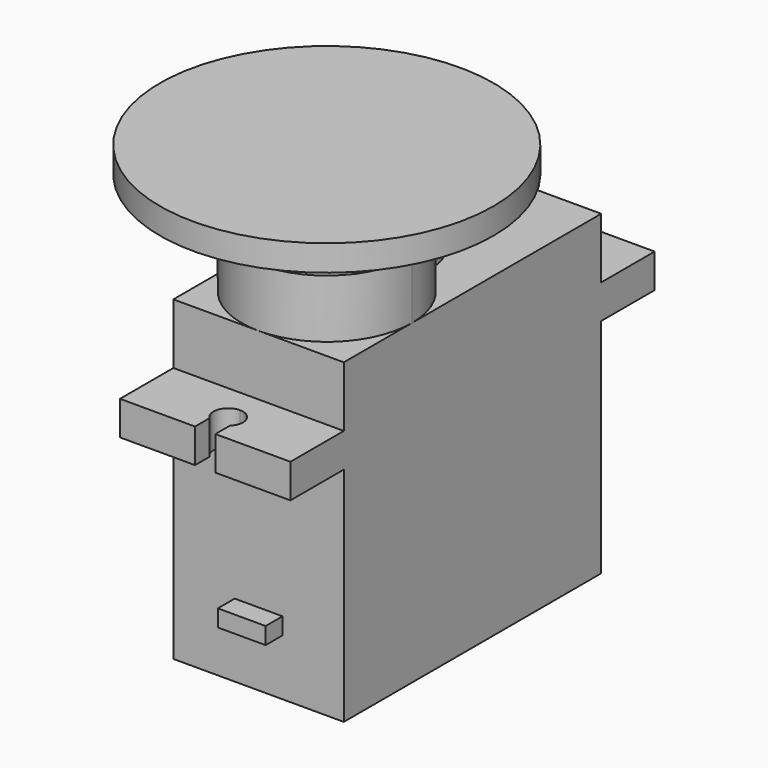
from build123d import *

# Parameters (mm, degrees)
F0_W          = 12.13
F0_H          = 22.9
F1_DEPTH      = 22.53
F2_W          = 12.13
F2_H          = 2.42
F3_DEPTH      = 4.75
F3_DEPTH_BACK = 27.65
F4_W          = 0.725
F4_H          = 1
F5_DEPTH      = 25
F6_DEPTH      = 25
F8_DEPTH      = 4.15
F9_R          = 2.45
F10_DEPTH     = 3.2
F11_R         = 11.87
F11_R_2       = 3.425
F11_R_3       = 2.45
F12_DEPTH     = 1.85
F13_DEPTH     = 2.67
F14_W         = 1.7
F14_H         = 1.2
F15_DEPTH     = 1.5


with BuildPart() as f1:
    # F0 (on Top) → F1 (new body)
    with BuildSketch(Plane.XY):
        Rectangle(F0_W, F0_H)
    extrude(amount=F1_DEPTH)

    # F2 (on face) → F3 (join, two sides)
    with BuildSketch(Plane(origin=(0, 11.45, 0), x_dir=(-1, 0, 0), z_dir=(0, 1, 0))) as f3_sk:
        with Locations((0, 17.02)):
            Rectangle(F2_W, F2_H)
    extrude(amount=F3_DEPTH)
    extrude(f3_sk.sketch, amount=-F3_DEPTH_BACK)

    # F4 (on face) → F5 (cut)
    with BuildSketch(Plane.XY.offset(18.23)):
        with BuildLine():
            ThreePointArc((0, 13.1), (0.7424621202, 13.4075378798), (1.05, 14.15))
            ThreePointArc((1.05, 14.15), (0.9653367288, 14.563067791), (0.725, 14.9095228765))
            Line((0.725, 14.9095228765), (0.725, 14.2))
            Line((0.725, 14.2), (0, 14.2))
            Line((0, 14.2), (0, 13.1))
        make_face()
        with BuildLine():
            ThreePointArc((-0.725, 14.9095228765), (-0.9746791832, 13.7594868891), (0, 13.1))
            Line((0, 13.1), (0, 14.2))
            Line((0, 14.2), (-0.725, 14.2))
            Line((-0.725, 14.2), (-0.725, 14.9095228765))
        make_face()
        with BuildLine():
            Line((0, 14.2), (0, 15.2))
            ThreePointArc((0, 15.2), (-0.3905131109, 15.1246791832), (-0.725, 14.9095228765))
            Line((-0.725, 14.9095228765), (-0.725, 14.2))
            Line((-0.725, 14.2), (0, 14.2))
        make_face()
        with BuildLine():
            Line((0.725, 14.2), (0.725, 14.9095228765))
            ThreePointArc((0.725, 14.9095228765), (0.3905131109, 15.1246791832), (0, 15.2))
            Line((0, 15.2), (0, 14.2))
            Line((0, 14.2), (0.725, 14.2))
        make_face()
        with BuildLine():
            ThreePointArc((0, 15.2), (0.3905131109, 15.1246791832), (0.725, 14.9095228765))
            Line((0.725, 14.9095228765), (0.725, 15.2))
            Line((0.725, 15.2), (0, 15.2))
        make_face()
        with Locations((0.3625, 15.7)):
            Rectangle(F4_W, F4_H)
        with Locations((-0.3625, 15.7)):
            Rectangle(F4_W, F4_H)
        with BuildLine():
            ThreePointArc((-0.725, 14.9095228765), (-0.3905131109, 15.1246791832), (0, 15.2))
            Line((0, 15.2), (-0.725, 15.2))
            Line((-0.725, 15.2), (-0.725, 14.9095228765))
        make_face()
    extrude(amount=-F5_DEPTH, mode=Mode.SUBTRACT)

    # F4 (on face) → F6 (cut)
    with BuildSketch(Plane.XY.offset(18.23)):
        with BuildLine():
            ThreePointArc((1.05, -14.15), (0.7424621202, -13.4075378798), (0, -13.1))
            Line((0, -13.1), (0, -14.2))
            Line((0, -14.2), (0.725, -14.2))
            Line((0.725, -14.2), (0.725, -14.9095228765))
            ThreePointArc((0.725, -14.9095228765), (0.9653367288, -14.563067791), (1.05, -14.15))
        make_face()
        with BuildLine():
            Line((0, -14.2), (0, -13.1))
            ThreePointArc((0, -13.1), (-0.9746791832, -13.7594868891), (-0.725, -14.9095228765))
            Line((-0.725, -14.9095228765), (-0.725, -14.2))
            Line((-0.725, -14.2), (0, -14.2))
        make_face()
        with BuildLine():
            Line((0.725, -14.2), (0, -14.2))
            Line((0, -14.2), (0, -15.2))
            ThreePointArc((1.4e-09, -15.2), (0.3905131116, -15.124679183), (0.725, -14.9095228765))
            Line((0.725, -14.9095228765), (0.725, -14.2))
        make_face()
        with BuildLine():
            ThreePointArc((0.725, -14.9095228765), (0.3905131116, -15.124679183), (1.4e-09, -15.2))
            Line((1.4e-09, -15.2), (0.725, -15.2))
            Line((0.725, -15.2), (0.725, -14.9095228765))
        make_face()
        with Locations((0.3625, -15.7)):
            Rectangle(F4_W, F4_H)
        with Locations((-0.3625, -15.7)):
            Rectangle(F4_W, F4_H)
        with BuildLine():
            Line((0, -15.2), (0, -14.2))
            Line((0, -14.2), (-0.725, -14.2))
            Line((-0.725, -14.2), (-0.725, -14.9095228765))
            ThreePointArc((-0.725, -14.9095228765), (-0.3905131103, -15.1246791835), (1.4e-09, -15.2))
        make_face()
        with BuildLine():
            ThreePointArc((1.4e-09, -15.2), (-0.3905131103, -15.1246791835), (-0.725, -14.9095228765))
            Line((-0.725, -14.9095228765), (-0.725, -15.2))
            Line((-0.725, -15.2), (1.4e-09, -15.2))
        make_face()
    extrude(amount=-F6_DEPTH, mode=Mode.SUBTRACT)

    # F7 (on face) → F8 (join)
    with BuildSketch(Plane.XY.offset(22.53)):
        with BuildLine():
            ThreePointArc((-2.77, 0.0104911732), (-3.1610263365, -10.5611121993), (6.065, -5.385))
            ThreePointArc((6.065, -5.385), (5.1761121993, -2.2239736635), (2.77, 0.0104911732))
            ThreePointArc((2.77, 0.0104911732), (2.7334664427, 0.0290914479), (2.6968079934, 0.0474443528))
            ThreePointArc((2.6968079934, 0.0474443528), (0, -2.09), (-2.6968079934, 0.0474443528))
            ThreePointArc((-2.6968079934, 0.0474443528), (-2.7334664427, 0.0290914479), (-2.77, 0.0104911732))
        make_face()
        with BuildLine():
            ThreePointArc((2.6968079934, 0.0474443528), (2.7334664427, 0.0290914479), (2.77, 0.0104911732))
            Line((2.77, 0.0104911732), (2.77, 0.68))
            ThreePointArc((2.77, 0.68), (2.7516411595, 0.3616119834), (2.6968079934, 0.0474443528))
        make_face()
        with BuildLine():
            Line((-2.77, 0.68), (-2.77, 0.0104911732))
            ThreePointArc((-2.77, 0.0104911732), (-2.7334664427, 0.0290914479), (-2.6968079934, 0.0474443528))
            ThreePointArc((-2.6968079934, 0.0474443528), (-2.7516411595, 0.3616119834), (-2.77, 0.68))
        make_face()
        with BuildLine():
            ThreePointArc((-2.6968079934, 0.0474443528), (0, 0.68), (2.6968079934, 0.0474443528))
            ThreePointArc((2.6968079934, 0.0474443528), (2.7516411595, 0.3616119834), (2.77, 0.68))
            ThreePointArc((2.77, 0.68), (0, 3.45), (-2.77, 0.68))
            ThreePointArc((-2.77, 0.68), (-2.7516411595, 0.3616119834), (-2.6968079934, 0.0474443528))
        make_face()
        with BuildLine():
            ThreePointArc((-2.6968079934, 0.0474443528), (0, -2.09), (2.6968079934, 0.0474443528))
            ThreePointArc((2.6968079934, 0.0474443528), (0, 0.68), (-2.6968079934, 0.0474443528))
        make_face()
    extrude(amount=F8_DEPTH)

    # F9 (on face) → F10 (join)
    with BuildSketch(Plane.XY.offset(26.68)):
        with Locations((0, -5.385)):
            Circle(F9_R)
    extrude(amount=F10_DEPTH)

    # F14 (on face) → F15 (join)
    with BuildSketch(Plane.XZ.offset(11.45)):
        with Locations((-0.85, 4.6)):
            Rectangle(F14_W, F14_H)
        with Locations((0.85, 4.6)):
            Rectangle(F14_W, F14_H)
    extrude(amount=F15_DEPTH)


with BuildPart() as f12:
    # F11 (on face) → F12 (new body)
    with BuildSketch(Plane.XY.offset(29.88)):
        with Locations((0, -5.385)):
            Circle(F11_R)
        with Locations((0, -5.385)):
            Circle(F11_R_2, mode=Mode.SUBTRACT)
        with Locations((0, -5.385)):
            Circle(F11_R_2)
        with Locations((0, -5.385)):
            Circle(F11_R_3, mode=Mode.SUBTRACT)
        with Locations((0, -5.385)):
            Circle(F11_R_3)
    extrude(amount=F12_DEPTH)

    # F11 (on face) → F13 (join)
    with BuildSketch(Plane.XY.offset(29.88)):
        with Locations((0, -5.385)):
            Circle(F11_R_2)
        with Locations((0, -5.385)):
            Circle(F11_R_3, mode=Mode.SUBTRACT)
    extrude(amount=-F13_DEPTH)


solid = Compound([f1.part, f12.part])
